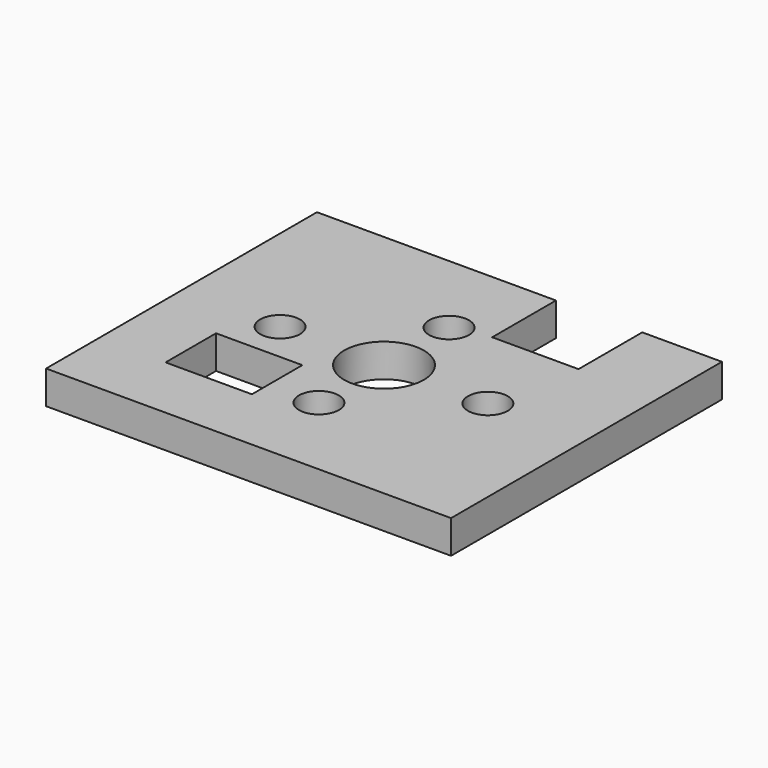
from build123d import *

# Parameters (mm, degrees)
F0_W     = 6.5
F0_H     = 4.75
F0_R     = 1.5
F0_R_2   = 3
F1_DEPTH = 2.5


with BuildPart() as f1:
    # F0 (on Top) → F1 (new body)
    with BuildSketch(Plane.XY):
        Polygon((-39.987817, 27.423815), (-39.987817, 1.923815), (-9.487817, 1.923815), (-9.487817, 27.423815), (-15.487817, 27.423815), (-15.487817, 21.423815), (-21.987817, 21.423815), (-21.987817, 27.423815), align=None)
        with Locations((-31.737817, 9.298815)):
            Rectangle(F0_W, F0_H, mode=Mode.SUBTRACT)
        with Locations((-24.737817, 8.548815)):
            Circle(F0_R, mode=Mode.SUBTRACT)
        with Locations((-32.562817, 14.673815)):
            Circle(F0_R, mode=Mode.SUBTRACT)
        with Locations((-24.737817, 14.673815)):
            Circle(F0_R_2, mode=Mode.SUBTRACT)
        with Locations((-24.737817, 20.798815)):
            Circle(F0_R, mode=Mode.SUBTRACT)
        with Locations((-16.912817, 14.673815)):
            Circle(F0_R, mode=Mode.SUBTRACT)
    extrude(amount=F1_DEPTH)


solid = f1.part
